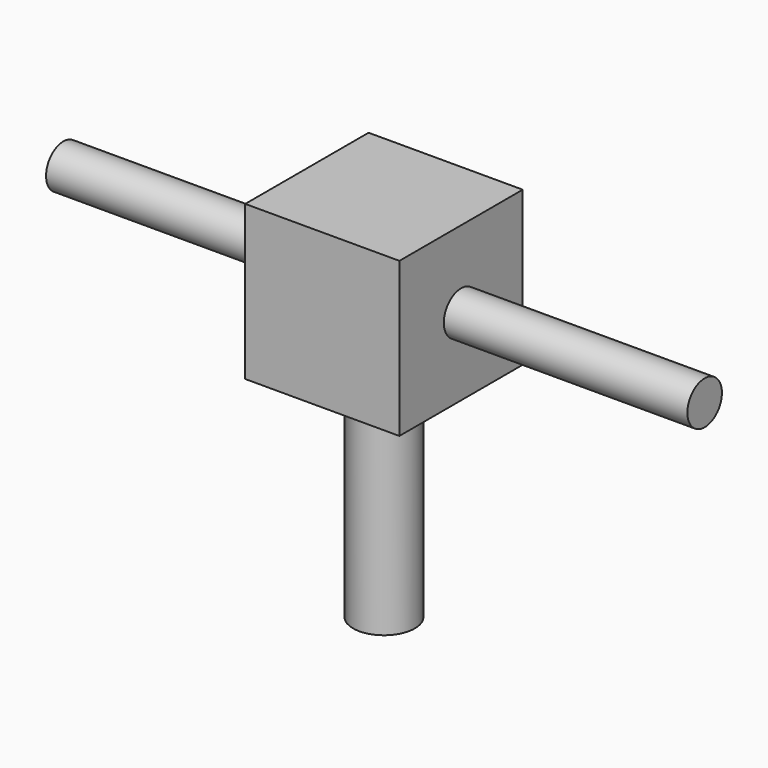
from build123d import *

# Parameters (mm, degrees)
F0_W          = 31.75
F0_H          = 31.75
F1_DEPTH      = 15.875
F2_R          = 4.445
F3_DEPTH      = 50.165
F3_DEPTH_BACK = 81.915
F4_R          = 6.35
F5_DEPTH      = 44.45


with BuildPart() as f1:
    # F0 (on Front) → F1 (new body, symmetric)
    with BuildSketch(Plane.XZ):
        with Locations((-15.875, 15.875)):
            Rectangle(F0_W, F0_H)
    extrude(amount=F1_DEPTH, both=True)

    # F2 (on face) → F3 (join, two sides)
    with BuildSketch(Plane.YZ) as f3_sk:
        with Locations((0, 15.875)):
            Circle(F2_R)
    extrude(amount=F3_DEPTH)
    extrude(f3_sk.sketch, amount=-F3_DEPTH_BACK)

    # F4 (on face) → F5 (join)
    with BuildSketch(Plane(origin=(0, 0, 0), x_dir=(1, 0, 0), z_dir=(0, 0, -1))):
        with Locations((-15.875, 0)):
            Circle(F4_R)
    extrude(amount=F5_DEPTH)


solid = f1.part
